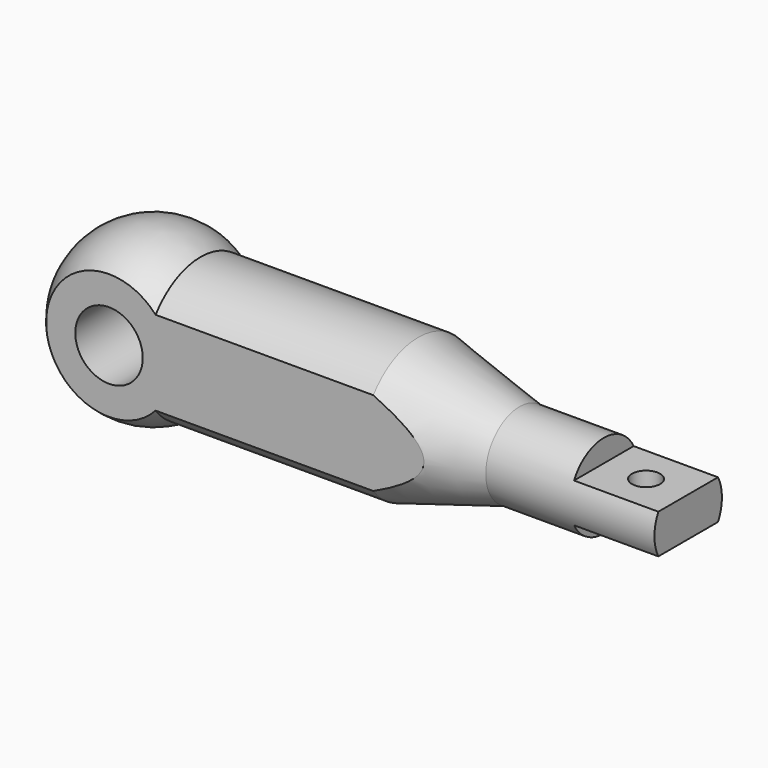
from build123d import *

# Parameters (mm, degrees)
F2_DEPTH      = 15.001
F2_DEPTH_BACK = 16
F4_DEPTH      = 15
F5_R          = 2.5
F6_DEPTH      = 7
F7_W          = 10
F7_H          = 24
F8_DEPTH      = 15.001
F8_DEPTH_BACK = 95.001


with BuildPart() as f1:
    # F0 (on Front) → F1 (revolve)
    with BuildSketch(Plane.XZ):
        with BuildLine():
            ThreePointArc((8.2915619759, 12.5), (13.2169101843, 7.0931858273), (15, 0))
            Line((15, 0), (95, 0))
            Line((95, 0), (95, 7.5))
            Line((95, 7.5), (65, 7.5))
            Line((65, 7.5), (47, 12.5))
            Line((47, 12.5), (8.2915619759, 12.5))
        make_face()
        with BuildLine():
            Line((6, 0), (15, 0))
            ThreePointArc((15, 0), (13.2169101843, 7.0931858273), (8.2915619759, 12.5))
            ThreePointArc((8.2915619759, 12.5), (-7.0931858273, 13.2169101843), (-15, 0))
            Line((-15, 0), (-6, 0))
            ThreePointArc((-6, 0), (0, 6), (6, 0))
        make_face()
    revolve(axis=Axis((40, 0, 0), (-1, 0, 0)))

    # F0 (on Front) → F2 (cut, two sides)
    with BuildSketch(Plane.XZ) as f2_sk:
        with BuildLine():
            ThreePointArc((-6, 0), (0, -6), (6, 0))
            Line((6, 0), (-6, 0))
        make_face()
        with BuildLine():
            Line((-6, 0), (6, 0))
            ThreePointArc((6, 0), (0, 6), (-6, 0))
        make_face()
    extrude(amount=-F2_DEPTH, mode=Mode.SUBTRACT)
    extrude(f2_sk.sketch, amount=F2_DEPTH_BACK, mode=Mode.SUBTRACT)

    # F3 (on face) → F4 (cut)
    with BuildSketch(Plane.YZ.offset(95)):
        with BuildLine():
            ThreePointArc((6.6332495807, 3.5), (0, 7.5), (-6.6332495807, 3.5))
            Line((-6.6332495807, 3.5), (6.6332495807, 3.5))
        make_face()
        with BuildLine():
            Line((6.6332495807, -3.5), (-6.6332495807, -3.5))
            ThreePointArc((-6.6332495807, -3.5), (0, -7.5), (6.6332495807, -3.5))
        make_face()
    extrude(amount=-F4_DEPTH, mode=Mode.SUBTRACT)

    # F5 (on face) → F6 (cut, through all)
    with BuildSketch(Plane.XY.offset(3.5)):
        with Locations((87.5, 0)):
            Circle(F5_R)
    extrude(amount=-F6_DEPTH, mode=Mode.SUBTRACT)

    # F7 (on Right) → F8 (cut, two sides)
    with BuildSketch(Plane.YZ) as f8_sk:
        with Locations((-15, 0)):
            Rectangle(F7_W, F7_H)
        with Locations((15, 0)):
            Rectangle(F7_W, F7_H)
    extrude(amount=-F8_DEPTH, mode=Mode.SUBTRACT)
    extrude(f8_sk.sketch, amount=F8_DEPTH_BACK, mode=Mode.SUBTRACT)


solid = f1.part
